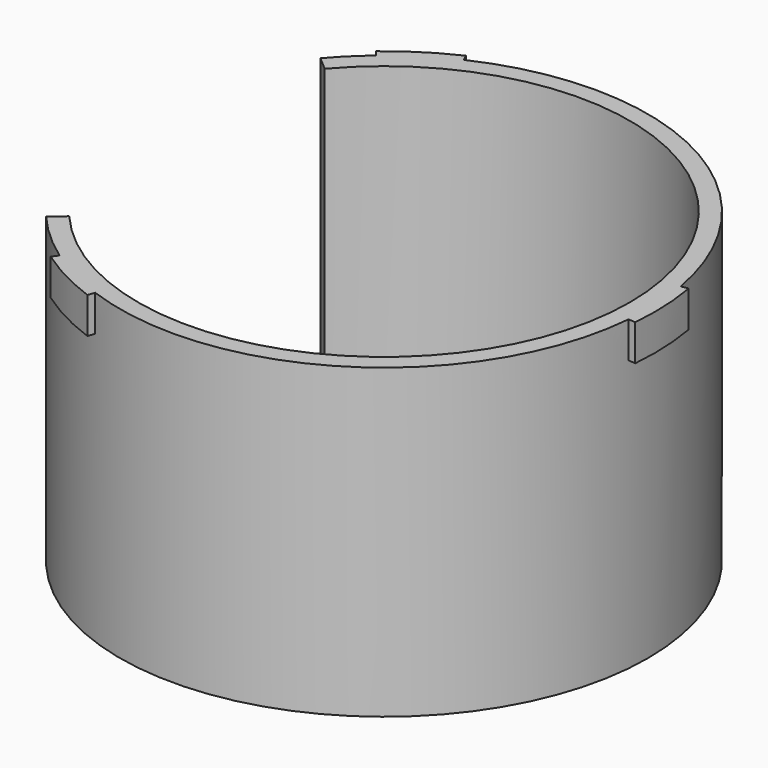
from build123d import *

# Parameters (mm, degrees)
F3_DEPTH = 10
F5_DEPTH = 85


with BuildPart() as f1:
    # F0 (on Front) → F1 (revolve)
    with BuildSketch(Plane.XZ):
        Polygon((-68, 0), (-73, 0), (-73, -85), (-71.5, -85), (-71.5, -84), (-69.5, -84), (-69.5, -85), (-68, -85), align=None)
    revolve(axis=Axis((0, 0, -12.456594), (0, 0, -1)))

    # F2 (on face) → F3 (join)
    with BuildSketch(Plane.XY):
        with BuildLine():
            Line((-25.651511, -70.476947), (-24.96747, -68.597561))
            ThreePointArc((-24.96747, -68.597561), (-33.707649, -64.751791), (-41.87108, -59.798099))
            Line((-41.87108, -59.798099), (-43.018233, -61.436403))
            ThreePointArc((-43.018233, -61.436403), (-34.631146, -66.525812), (-25.651511, -70.476947))
        make_face()
        with BuildLine():
            Line((73.860581, 13.023613), (71.890966, 12.676317))
            ThreePointArc((71.890966, 12.676317), (72.93052, 3.184215), (72.722213, -6.362369))
            Line((72.722213, -6.362369), (74.714602, -6.536681))
            ThreePointArc((74.714602, -6.536681), (74.928617, 3.271454), (73.860581, 13.023613))
        make_face()
        with BuildLine():
            Line((-48.209071, 57.453333), (-46.923496, 55.921244))
            ThreePointArc((-46.923496, 55.921244), (-39.222871, 61.567576), (-30.851133, 66.160468))
            Line((-30.851133, 66.160468), (-31.69637, 67.973084))
            ThreePointArc((-31.69637, 67.973084), (-40.297471, 63.254358), (-48.209071, 57.453333))
        make_face()
    extrude(amount=-F3_DEPTH)

    # F4 (on face) → F5 (cut, through all)
    with BuildSketch(Plane.XY):
        with BuildLine():
            ThreePointArc((-55.509635, 47.409708), (-73, 0), (-55.509635, -47.409708))
            Line((-55.509635, -47.409708), (-51.707606, -44.162467))
            ThreePointArc((-51.707606, -44.162467), (-68, 0), (-51.707606, 44.162467))
            Line((-51.707606, 44.162467), (-55.509635, 47.409708))
        make_face()
    extrude(amount=-F5_DEPTH, mode=Mode.SUBTRACT)


solid = f1.part
